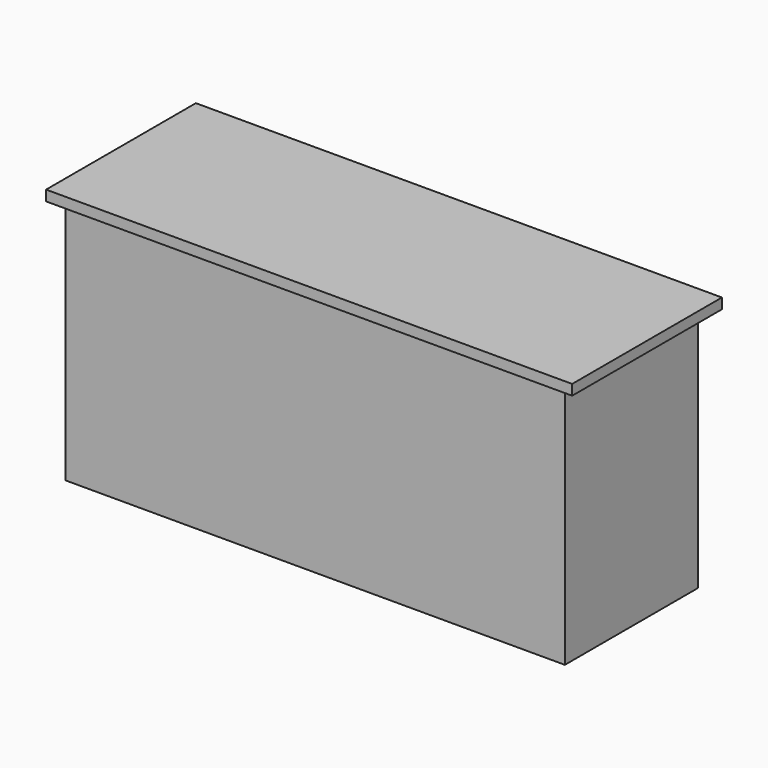
from build123d import *

# Parameters (mm, degrees)
SKETCH_W     = 1828.8
SKETCH_H     = 609.6
PAD_DEPTH    = 900
SKETCH001_W  = 1927.225
SKETCH001_H  = 685.8
PAD001_DEPTH = 38.1


with BuildPart() as body:
    # Sketch → Pad (new body)
    with BuildSketch(Plane.XY):
        with Locations((914.4, 304.8)):
            Rectangle(SKETCH_W, SKETCH_H)
    extrude(amount=PAD_DEPTH)


with BuildPart() as body001:
    # Sketch001 → Pad001 (new body)
    with BuildSketch(Plane.XY):
        with Locations((922.3375, 304.8)):
            Rectangle(SKETCH001_W, SKETCH001_H)
    extrude(amount=PAD001_DEPTH)


with BuildPart() as body001_1:
    # Body001 placement: moved
    add(body001.part.moved(Location((0, 0, 902))))


solid = Compound([body.part, body001_1.part])
